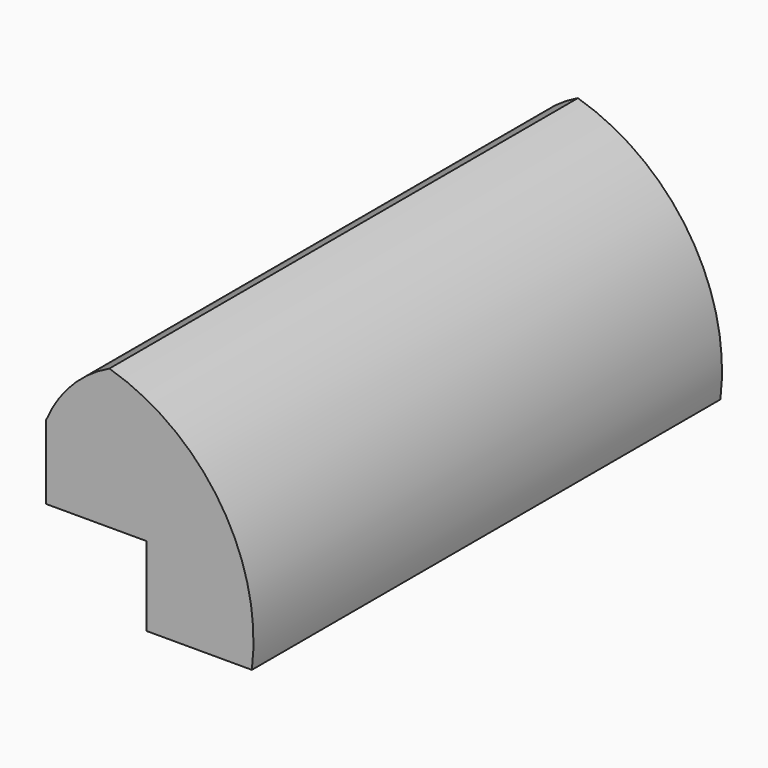
from build123d import *

# Parameters (mm, degrees)
F1_DEPTH = 111


with BuildPart() as f1:
    # F0 (on Front) → F1 (new body)
    with BuildSketch(Plane.XZ):
        with BuildLine():
            Line((0, 29), (0, 15))
            Line((0, 15), (19, 15))
            Line((19, 15), (19, 0))
            Line((19, 0), (39, 0))
            ThreePointArc((39, 0), (33.128812, 25.713323), (12, 41.5))
            ThreePointArc((12, 41.5), (4.844107, 36.359658), (0, 29))
        make_face()
    extrude(amount=F1_DEPTH)


solid = f1.part
